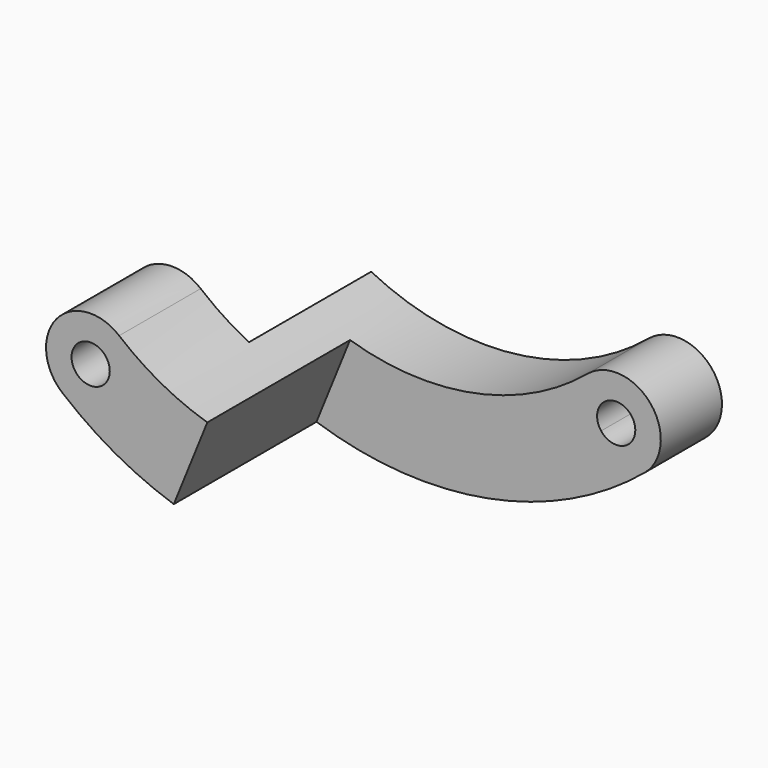
from build123d import *

# Parameters (mm, degrees)
F1_DEPTH = 10
F3_DEPTH = 14
F5_DEPTH = 12


with BuildPart() as f1:
    # F0 (on Front) → F1 (new body, symmetric)
    with BuildSketch(Plane.XZ):
        with BuildLine():
            ThreePointArc((12.787234, -15.378122), (0, -20), (-12.787234, -15.378122))
            ThreePointArc((-12.787234, -15.378122), (-17.716171, -15.831528), (-17.262766, -20.760465))
            ThreePointArc((-17.262766, -20.760465), (0, -27), (17.262766, -20.760465))
            ThreePointArc((17.262766, -20.760465), (17.716171, -15.831528), (12.787234, -15.378122))
        make_face()
        with BuildLine():
            ThreePointArc((-13.525, -18.069294), (-13.606362, -18.556598), (-13.841621, -18.991038))
            ThreePointArc((-13.841621, -18.991038), (-16.443638, -17.581989), (-13.525, -18.069294))
        make_face(mode=Mode.SUBTRACT)
        with BuildLine():
            ThreePointArc((16.525, -18.069294), (15.512304, -19.487932), (13.841621, -18.991038))
            ThreePointArc((13.841621, -18.991038), (14.537696, -16.650655), (16.525, -18.069294))
        make_face(mode=Mode.SUBTRACT)
    extrude(amount=F1_DEPTH, both=True)

    # F2 (on face) → F3 (cut)
    with BuildSketch(Plane.XZ.offset(10)):
        with BuildLine():
            Line((31.764954, -10.083012), (-3.385311, -12.986047))
            Line((-3.385311, -12.986047), (-5.867412, -19.119976))
            ThreePointArc((-5.867412, -19.119976), (3.933364, -19.609402), (12.787234, -15.378122))
            ThreePointArc((12.787234, -15.378122), (17.716171, -15.831528), (17.262766, -20.760465))
            ThreePointArc((17.262766, -20.760465), (5.011502, -26.530828), (-8.500477, -25.626976))
            Line((-8.500477, -25.626976), (-10.211368, -29.855039))
            Line((-10.211368, -29.855039), (28.234236, -31.502709))
            Line((28.234236, -31.502709), (31.764954, -10.083012))
        make_face()
        with BuildLine():
            ThreePointArc((12.787234, -15.378122), (3.933364, -19.609402), (-5.867412, -19.119976))
            Line((-5.867412, -19.119976), (-8.500477, -25.626976))
            ThreePointArc((-8.500477, -25.626976), (5.011502, -26.530828), (17.262766, -20.760465))
            ThreePointArc((17.262766, -20.760465), (17.716171, -15.831528), (12.787234, -15.378122))
        make_face()
        with BuildLine():
            ThreePointArc((13.841621, -18.991038), (14.537696, -16.650655), (16.525, -18.069294))
            ThreePointArc((16.525, -18.069294), (15.512304, -19.487932), (13.841621, -18.991038))
        make_face(mode=Mode.SUBTRACT)
    extrude(amount=-F3_DEPTH, mode=Mode.SUBTRACT)

    # F4 (on face) → F5 (cut)
    with BuildSketch(Plane(origin=(0, 10, 0), x_dir=(-1, 0, 0), z_dir=(0, 1, 0))):
        Polygon((7.364115, -14.344795), (13.547452, -27.560162), (28.157102, -12.950514), align=None)
    extrude(amount=-F5_DEPTH, mode=Mode.SUBTRACT)


solid = f1.part
